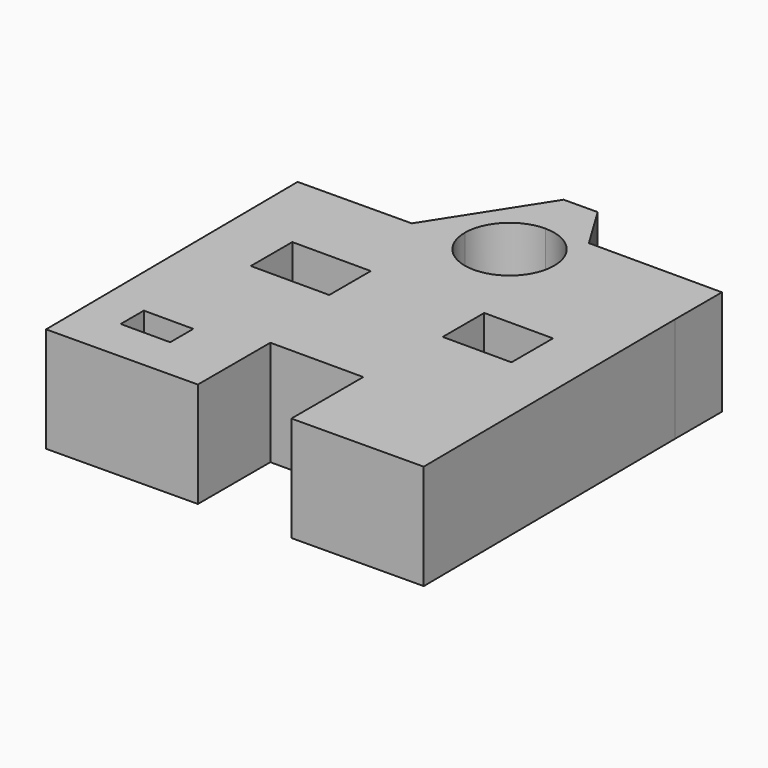
from build123d import *

# Parameters (mm, degrees)
F0_W     = 11.950493
F0_H     = 6.995411
F1_DEPTH = 25.4


with BuildPart() as f1:
    # F0 (on Top) → F1 (new body)
    with BuildSketch(Plane.XY):
        Polygon((-20.992246, 50.487819), (-48.38492, 50.279509), (-47.801968, -26.378524), (-11.365215, -26.101437), (-11.365215, -4.226394), (-0.144575, -4.226394), (11.076065, -4.226394), (11.076065, -25.930781), (42.843859, -25.6892), (42.261598, 50.877959), (42.261598, 65.050593), (10.130933, 65.050593), (3.508316, 75.991488), (-4.663607, 75.929344), align=None)
        with Locations((-32.208033, -12.387705)):
            Rectangle(F0_W, F0_H, mode=Mode.SUBTRACT)
        Polygon((-24.338197, 30.45918), (-14.865247, 30.45918), (-14.865247, 24.192459), (-14.865247, 17.925737), (-24.338197, 17.925737), (-33.811148, 17.925737), (-33.811148, 24.192459), (-33.811148, 30.45918), align=None, mode=Mode.SUBTRACT)
        Polygon((12.533442, 24.192459), (12.533442, 30.45918), (20.840491, 30.45918), (29.147539, 30.45918), (29.147539, 24.192459), (29.147539, 17.925737), (20.840491, 17.925737), (12.533442, 17.925737), align=None, mode=Mode.SUBTRACT)
        with BuildLine():
            ThreePointArc((0, 64.565737), (7.62864, 61.405851), (10.788526, 53.77721))
            ThreePointArc((10.788526, 53.77721), (7.62864, 46.14857), (0, 42.988684))
            ThreePointArc((0, 42.988684), (-7.62864, 46.14857), (-10.788526, 53.77721))
            ThreePointArc((-10.788526, 53.77721), (-7.62864, 61.405851), (0, 64.565737))
        make_face(mode=Mode.SUBTRACT)
    extrude(amount=F1_DEPTH)


solid = f1.part
